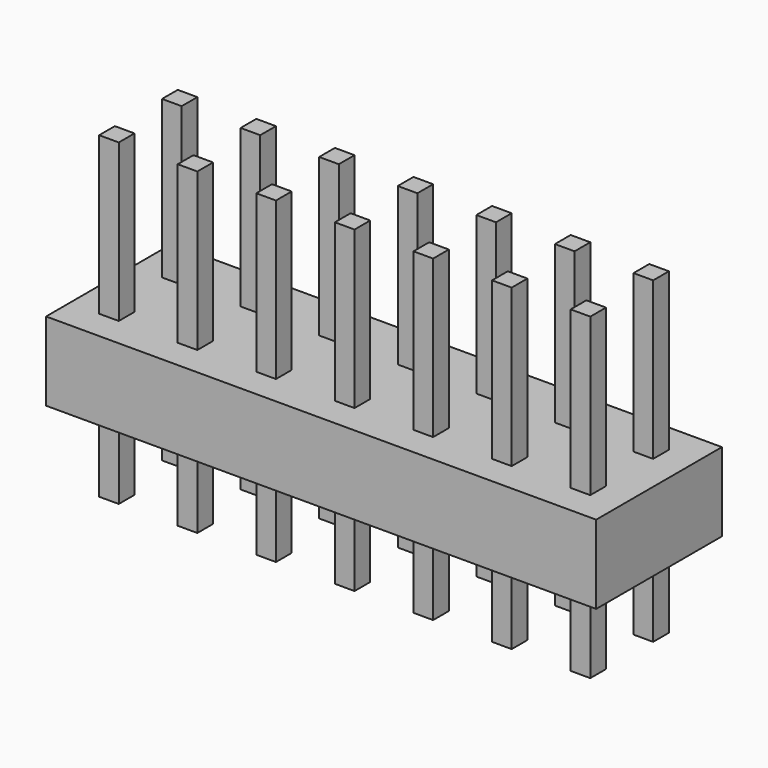
from build123d import *

# Parameters (mm, degrees)
F0_W     = 18
F0_H     = 4
F1_DEPTH = 2
F2_W     = 0.5
F2_H     = 0.5
F3_DEPTH = 4
F4_DEPTH = 4.1
F5_W     = 4.363794
F5_H     = 11.277623
F6_DEPTH = 4.001


with BuildPart() as f1:
    # F0 (on Top) → F1 (new body)
    with BuildSketch(Plane.XY):
        Rectangle(F0_W, F0_H)
    extrude(amount=F1_DEPTH)


with BuildPart() as f3:
    # F2 (on face) → F3 (new body)
    with BuildSketch(Plane.XY.offset(2)):
        with Locations((0, 1)):
            Rectangle(F2_W, F2_H)
        with Locations((0, -1)):
            Rectangle(F2_W, F2_H)
        with Locations((-2, -1)):
            Rectangle(F2_W, F2_H)
        with Locations((-2, 1)):
            Rectangle(F2_W, F2_H)
        with Locations((-4, -1)):
            Rectangle(F2_W, F2_H)
        with Locations((-4, 1)):
            Rectangle(F2_W, F2_H)
        with Locations((-6, -1)):
            Rectangle(F2_W, F2_H)
        with Locations((-6, 1)):
            Rectangle(F2_W, F2_H)
        with Locations((-8, 1)):
            Rectangle(F2_W, F2_H)
        with Locations((-8, -1)):
            Rectangle(F2_W, F2_H)
        with Locations((8, 1)):
            Rectangle(F2_W, F2_H)
        with Locations((6, -1)):
            Rectangle(F2_W, F2_H)
        with Locations((4, 1)):
            Rectangle(F2_W, F2_H)
        with Locations((4, -1)):
            Rectangle(F2_W, F2_H)
        with Locations((6, 1)):
            Rectangle(F2_W, F2_H)
        with Locations((8, -1)):
            Rectangle(F2_W, F2_H)
        with Locations((2, 1)):
            Rectangle(F2_W, F2_H)
        with Locations((2, -1)):
            Rectangle(F2_W, F2_H)
    extrude(amount=F3_DEPTH)


with BuildPart() as f4:
    # F2 (on face) → F4 (new body)
    with BuildSketch(Plane.XY.offset(2)):
        with Locations((0, 1)):
            Rectangle(F2_W, F2_H)
        with Locations((0, -1)):
            Rectangle(F2_W, F2_H)
        with Locations((-2, -1)):
            Rectangle(F2_W, F2_H)
        with Locations((-2, 1)):
            Rectangle(F2_W, F2_H)
        with Locations((-4, -1)):
            Rectangle(F2_W, F2_H)
        with Locations((-4, 1)):
            Rectangle(F2_W, F2_H)
        with Locations((-6, -1)):
            Rectangle(F2_W, F2_H)
        with Locations((-6, 1)):
            Rectangle(F2_W, F2_H)
        with Locations((-8, 1)):
            Rectangle(F2_W, F2_H)
        with Locations((-8, -1)):
            Rectangle(F2_W, F2_H)
        with Locations((8, 1)):
            Rectangle(F2_W, F2_H)
        with Locations((6, -1)):
            Rectangle(F2_W, F2_H)
        with Locations((4, 1)):
            Rectangle(F2_W, F2_H)
        with Locations((4, -1)):
            Rectangle(F2_W, F2_H)
        with Locations((6, 1)):
            Rectangle(F2_W, F2_H)
        with Locations((8, -1)):
            Rectangle(F2_W, F2_H)
        with Locations((2, 1)):
            Rectangle(F2_W, F2_H)
        with Locations((2, -1)):
            Rectangle(F2_W, F2_H)
    extrude(amount=-F4_DEPTH)


with BuildPart() as f6_tool:
    # F5 (on face) → F6 (new body, through all)
    with BuildSketch(Plane.XZ.offset(2)):
        with Locations((9.181897, 0.678828)):
            Rectangle(F5_W, F5_H)
        with Locations((-9.181897, 0.678828)):
            Rectangle(F5_W, F5_H)
    extrude(amount=-F6_DEPTH)


with BuildPart() as f1_1:
    add(f1.part)

    # F6: cut by f6_tool
    add(f6_tool.part, mode=Mode.SUBTRACT)


with BuildPart() as f3_1:
    add(f3.part)

    # F6: cut by f6_tool
    add(f6_tool.part, mode=Mode.SUBTRACT)


with BuildPart() as f4_1:
    add(f4.part)

    # F6: cut by f6_tool
    add(f6_tool.part, mode=Mode.SUBTRACT)


solid = Compound([f1_1.part, f3_1.part, f4_1.part])
